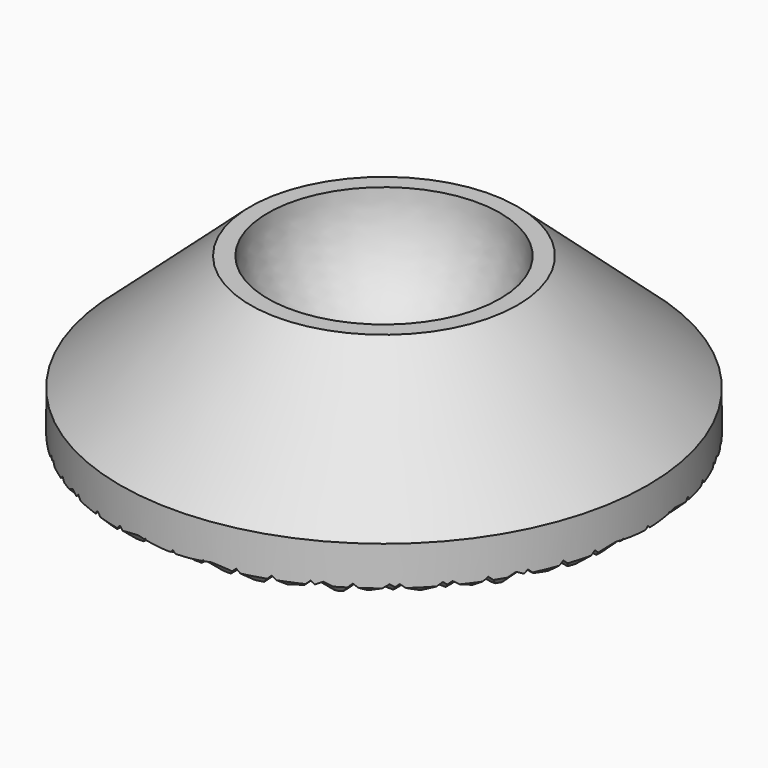
from build123d import *

# Parameters (mm, degrees)
F2_SIZE  = 0.396875
F4_DEPTH = 25.4
F6_DEPTH = 25.4


with BuildPart() as f1:
    # F0 (on Front) → F1 (revolve)
    with BuildSketch(Plane.XZ):
        with BuildLine():
            Line((0, 2.54), (0, 0))
            Line((0, 0), (14.4272, 0))
            Line((14.4272, 0), (14.4272, 2.54))
            Line((14.4272, 2.54), (7.3025, 8.89))
            Line((7.3025, 8.89), (6.35, 8.89))
            ThreePointArc((6.35, 8.89), (4.490128, 4.399872), (0, 2.54))
        make_face()
    revolve(axis=Axis((0, 0, 5.715), (0, 0, -1)))

    # F2
    f2_edges = [f1.edges().sort_by_distance(p)[0] for p in [
        (-14.4272, 0, 0),
    ]]
    chamfer(f2_edges, length=F2_SIZE)

    # F3 (on Front) → F4 (cut, symmetric)
    with BuildSketch(Plane.XZ):
        Polygon((-16.470313, 0), (-15.279688, 0), (-15.875, 0.595312), align=None)
        Polygon((-14.882812, 0), (-13.692188, 0), (-14.2875, 0.595312), align=None)
        Polygon((-13.295313, 0), (-12.104688, 0), (-12.7, 0.595312), align=None)
        Polygon((-11.707813, 0), (-10.517188, 0), (-11.1125, 0.595312), align=None)
        Polygon((-10.120313, 0), (-8.929688, 0), (-9.525, 0.595312), align=None)
        Polygon((-8.532813, 0), (-7.342188, 0), (-7.9375, 0.595312), align=None)
        Polygon((-6.945312, 0), (-5.754688, 0), (-6.35, 0.595312), align=None)
        Polygon((-5.357812, 0), (-4.167188, 0), (-4.7625, 0.595312), align=None)
        Polygon((-3.770312, 0), (-2.579688, 0), (-3.175, 0.595312), align=None)
        Polygon((-2.182813, 0), (-0.992188, 0), (-1.5875, 0.595312), align=None)
        Polygon((-0.595313, 0), (0.595313, 0), (0, 0.595312), align=None)
        Polygon((0.992188, 0), (2.182813, 0), (1.5875, 0.595312), align=None)
        Polygon((2.579688, 0), (3.770312, 0), (3.175, 0.595312), align=None)
        Polygon((4.167188, 0), (5.357813, 0), (4.7625, 0.595312), align=None)
        Polygon((5.754688, 0), (6.945312, 0), (6.35, 0.595312), align=None)
        Polygon((7.342188, 0), (8.532813, 0), (7.9375, 0.595312), align=None)
        Polygon((8.929688, 0), (10.120313, 0), (9.525, 0.595312), align=None)
        Polygon((10.517188, 0), (11.707812, 0), (11.1125, 0.595312), align=None)
        Polygon((12.104688, 0), (13.295313, 0), (12.7, 0.595312), align=None)
        Polygon((13.692188, 0), (14.882812, 0), (14.2875, 0.595312), align=None)
    extrude(amount=F4_DEPTH, both=True, mode=Mode.SUBTRACT)

    # F5 (on Right) → F6 (cut, symmetric)
    with BuildSketch(Plane.YZ):
        Polygon((-16.470313, 0), (-15.279687, 0), (-15.875, 0.595313), align=None)
        Polygon((-14.882813, 0), (-13.692188, 0), (-14.2875, 0.595312), align=None)
        Polygon((-13.295313, 0), (-12.104688, 0), (-12.7, 0.595312), align=None)
        Polygon((-11.707813, 0), (-10.517188, 0), (-11.1125, 0.595312), align=None)
        Polygon((-10.120312, 0), (-8.929687, 0), (-9.525, 0.595312), align=None)
        Polygon((-8.532813, 0), (-7.342187, 0), (-7.9375, 0.595312), align=None)
        Polygon((-6.945313, 0), (-5.754688, 0), (-6.35, 0.595312), align=None)
        Polygon((-5.357813, 0), (-4.167188, 0), (-4.7625, 0.595312), align=None)
        Polygon((-3.770312, 0), (-2.579687, 0), (-3.175, 0.595312), align=None)
        Polygon((-2.182812, 0), (-0.992187, 0), (-1.5875, 0.595312), align=None)
        Polygon((-0.595313, 0), (0.595313, 0), (0, 0.595312), align=None)
        Polygon((0.992187, 0), (2.182812, 0), (1.5875, 0.595312), align=None)
        Polygon((2.579688, 0), (3.770313, 0), (3.175, 0.595312), align=None)
        Polygon((4.167188, 0), (5.357813, 0), (4.7625, 0.595312), align=None)
        Polygon((5.754688, 0), (6.945313, 0), (6.35, 0.595312), align=None)
        Polygon((7.342188, 0), (8.532813, 0), (7.9375, 0.595312), align=None)
        Polygon((8.929688, 0), (10.120313, 0), (9.525, 0.595312), align=None)
        Polygon((10.517188, 0), (11.707813, 0), (11.1125, 0.595312), align=None)
        Polygon((12.104688, 0), (13.295313, 0), (12.7, 0.595312), align=None)
        Polygon((13.692188, 0), (14.882813, 0), (14.2875, 0.595312), align=None)
    extrude(amount=F6_DEPTH, both=True, mode=Mode.SUBTRACT)


solid = f1.part
